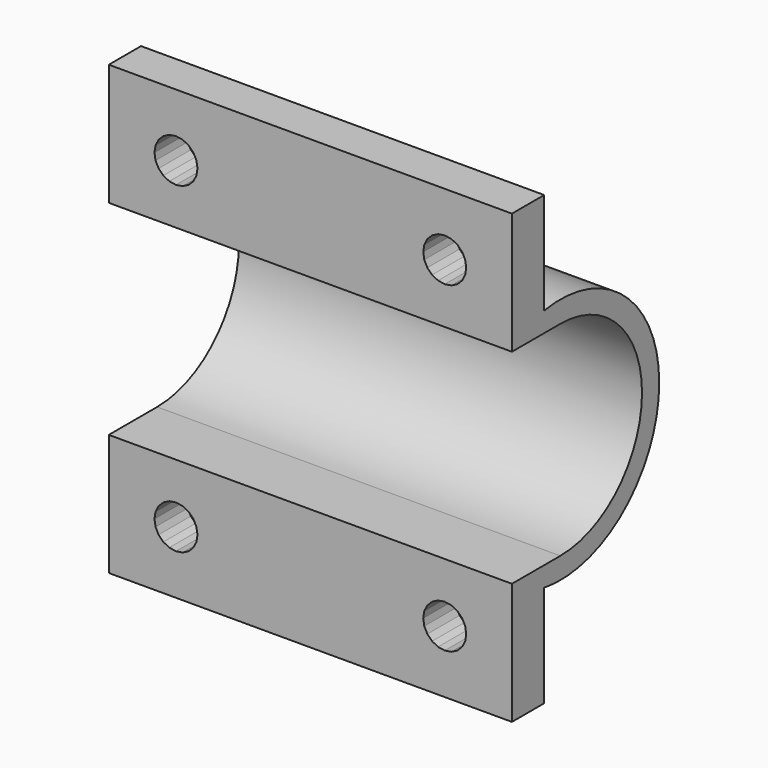
from build123d import *

# Parameters (mm, degrees)
PRISM058_DEPTH                = 10
PRISM058_PITCH_ANGLE          = 90
PRISM059_DEPTH                = 10
PRISM059_PITCH_ANGLE          = 90
PRISM060_DEPTH                = 10
PRISM060_PITCH_ANGLE          = 90
PRISM061_DEPTH                = 10
PRISM061_PITCH_ANGLE          = 90
CUBE064_W                     = 5
CUBE064_H                     = 35
CUBE064_DEPTH                 = 32
CUBE063_W                     = 16
CUBE063_H                     = 15.2
CUBE063_DEPTH                 = 30
CUBE059_W                     = 3
CUBE059_H                     = 11.7
CUBE059_DEPTH                 = 30
CUBE060_W                     = 3
CUBE060_H                     = 11.7
CUBE060_DEPTH                 = 30
CUBE061_W                     = 1.6
CUBE061_H                     = 1.6
CUBE061_DEPTH                 = 30
CUBE062_W                     = 1.6
CUBE062_H                     = 1.6
CUBE062_DEPTH                 = 30
CYLINDER015_R                 = 7.6
CYLINDER015_DEPTH             = 30
CYLINDER014_R                 = 9.2
CYLINDER014_DEPTH             = 30
DIFFERENCE044_ROLL_ANGLE      = 90
DIFFERENCE044_PLACEMENT_ANGLE = 90


with BuildPart() as prism058:
    # prism058 → prism058 (new body)
    with BuildSketch(Plane.XY):
        Polygon((1.6, 0), (1.52169, 0.494427), (1.294427, 0.940456), (0.940456, 1.294427), (0.494427, 1.52169), (0, 1.6), (-0.494427, 1.52169), (-0.940456, 1.294427), (-1.294427, 0.940456), (-1.52169, 0.494427), (-1.6, 0), (-1.52169, -0.494427), (-1.294427, -0.940456), (-0.940456, -1.294427), (-0.494427, -1.52169), (0, -1.6), (0.494427, -1.52169), (0.940456, -1.294427), (1.294427, -0.940456), (1.52169, -0.494427), align=None)
    extrude(amount=PRISM058_DEPTH)


with BuildPart() as prism058_1:
    # prism058 pitch: moved
    add(prism058.part.rotate(Axis((0, 0, 0), (0, 1, 0)), PRISM058_PITCH_ANGLE))


with BuildPart() as prism058_2:
    # prism058 placement: moved
    add(prism058_1.part.moved(Location((-10, 12, 10))))


with BuildPart() as prism059:
    # prism059 → prism059 (new body)
    with BuildSketch(Plane.XY):
        Polygon((1.6, 0), (1.52169, 0.494427), (1.294427, 0.940456), (0.940456, 1.294427), (0.494427, 1.52169), (0, 1.6), (-0.494427, 1.52169), (-0.940456, 1.294427), (-1.294427, 0.940456), (-1.52169, 0.494427), (-1.6, 0), (-1.52169, -0.494427), (-1.294427, -0.940456), (-0.940456, -1.294427), (-0.494427, -1.52169), (0, -1.6), (0.494427, -1.52169), (0.940456, -1.294427), (1.294427, -0.940456), (1.52169, -0.494427), align=None)
    extrude(amount=PRISM059_DEPTH)


with BuildPart() as prism059_1:
    # prism059 pitch: moved
    add(prism059.part.rotate(Axis((0, 0, 0), (0, 1, 0)), PRISM059_PITCH_ANGLE))


with BuildPart() as prism059_2:
    # prism059 placement: moved
    add(prism059_1.part.moved(Location((-10, 12, -10))))


with BuildPart() as prism060:
    # prism060 → prism060 (new body)
    with BuildSketch(Plane.XY):
        Polygon((1.6, 0), (1.52169, 0.494427), (1.294427, 0.940456), (0.940456, 1.294427), (0.494427, 1.52169), (0, 1.6), (-0.494427, 1.52169), (-0.940456, 1.294427), (-1.294427, 0.940456), (-1.52169, 0.494427), (-1.6, 0), (-1.52169, -0.494427), (-1.294427, -0.940456), (-0.940456, -1.294427), (-0.494427, -1.52169), (0, -1.6), (0.494427, -1.52169), (0.940456, -1.294427), (1.294427, -0.940456), (1.52169, -0.494427), align=None)
    extrude(amount=PRISM060_DEPTH)


with BuildPart() as prism060_1:
    # prism060 pitch: moved
    add(prism060.part.rotate(Axis((0, 0, 0), (0, 1, 0)), PRISM060_PITCH_ANGLE))


with BuildPart() as prism060_2:
    # prism060 placement: moved
    add(prism060_1.part.moved(Location((-10, -12, 10))))


with BuildPart() as prism061:
    # prism061 → prism061 (new body)
    with BuildSketch(Plane.XY):
        Polygon((1.6, 0), (1.52169, 0.494427), (1.294427, 0.940456), (0.940456, 1.294427), (0.494427, 1.52169), (0, 1.6), (-0.494427, 1.52169), (-0.940456, 1.294427), (-1.294427, 0.940456), (-1.52169, 0.494427), (-1.6, 0), (-1.52169, -0.494427), (-1.294427, -0.940456), (-0.940456, -1.294427), (-0.494427, -1.52169), (0, -1.6), (0.494427, -1.52169), (0.940456, -1.294427), (1.294427, -0.940456), (1.52169, -0.494427), align=None)
    extrude(amount=PRISM061_DEPTH)


with BuildPart() as prism061_1:
    # prism061 pitch: moved
    add(prism061.part.rotate(Axis((0, 0, 0), (0, 1, 0)), PRISM061_PITCH_ANGLE))


with BuildPart() as prism061_2:
    # prism061 placement: moved
    add(prism061_1.part.moved(Location((-10, -12, -10))))


with BuildPart() as cube064:
    # cube064 → cube064 (new body)
    with BuildSketch(Plane(origin=(-9.5, -17.5, -16), x_dir=(1, 0, 0), z_dir=(0, 0, 1))):
        with Locations((2.5, 17.5)):
            Rectangle(CUBE064_W, CUBE064_H)
    extrude(amount=CUBE064_DEPTH)


with BuildPart() as union032:
    # cube063 → cube063 (new body)
    with BuildSketch(Plane(origin=(-16, -7.6, -15), x_dir=(1, 0, 0), z_dir=(0, 0, 1))):
        with Locations((8, 7.6)):
            Rectangle(CUBE063_W, CUBE063_H)
    extrude(amount=CUBE063_DEPTH)

    # union032: union prism058, prism059, prism060, prism061, cube064
    add(prism058_2.part)
    add(prism059_2.part)
    add(prism060_2.part)
    add(prism061_2.part)
    add(cube064.part)


with BuildPart() as cube059:
    # cube059 → cube059 (new body)
    with BuildSketch(Plane(origin=(-4.5, 4.95, -15), x_dir=(1, 0, 0), z_dir=(0, 0, 1))):
        with Locations((1.5, 5.85)):
            Rectangle(CUBE059_W, CUBE059_H)
    extrude(amount=CUBE059_DEPTH)


with BuildPart() as cube060:
    # cube060 → cube060 (new body)
    with BuildSketch(Plane(origin=(-4.5, -16.65, -15), x_dir=(1, 0, 0), z_dir=(0, 0, 1))):
        with Locations((1.5, 5.85)):
            Rectangle(CUBE060_W, CUBE060_H)
    extrude(amount=CUBE060_DEPTH)


with BuildPart() as cube061:
    # cube061 → cube061 (new body)
    with BuildSketch(Plane(origin=(-4.6, 7.5, -15), x_dir=(1, 0, 0), z_dir=(0, 0, 1))):
        with Locations((0.8, 0.8)):
            Rectangle(CUBE061_W, CUBE061_H)
    extrude(amount=CUBE061_DEPTH)


with BuildPart() as cube062:
    # cube062 → cube062 (new body)
    with BuildSketch(Plane(origin=(-4.6, -9.1, -15), x_dir=(1, 0, 0), z_dir=(0, 0, 1))):
        with Locations((0.8, 0.8)):
            Rectangle(CUBE062_W, CUBE062_H)
    extrude(amount=CUBE062_DEPTH)


with BuildPart() as cylinder015:
    # cylinder015 → cylinder015 (new body)
    with BuildSketch(Plane.XY.offset(-15)):
        Circle(CYLINDER015_R)
    extrude(amount=CYLINDER015_DEPTH)


with BuildPart() as difference044:
    # cylinder014 → cylinder014 (new body)
    with BuildSketch(Plane.XY.offset(-15)):
        Circle(CYLINDER014_R)
    extrude(amount=CYLINDER014_DEPTH)

    # difference043: cut cylinder015
    add(cylinder015.part, mode=Mode.SUBTRACT)

    # union031: union cube059, cube060, cube061, cube062
    add(cube059.part)
    add(cube060.part)
    add(cube061.part)
    add(cube062.part)

    # difference044: cut union032
    add(union032.part, mode=Mode.SUBTRACT)


with BuildPart() as difference044_1:
    # difference044 roll: moved
    add(difference044.part.rotate(Axis((0, 0, 0), (1, 0, 0)), DIFFERENCE044_ROLL_ANGLE))


with BuildPart() as difference044_2:
    # difference044 placement: moved
    add(difference044_1.part.moved(Location((178, 252, 190))).rotate(Axis((178, 252, 190), (0, 0, 1)), DIFFERENCE044_PLACEMENT_ANGLE))


solid = difference044_2.part
